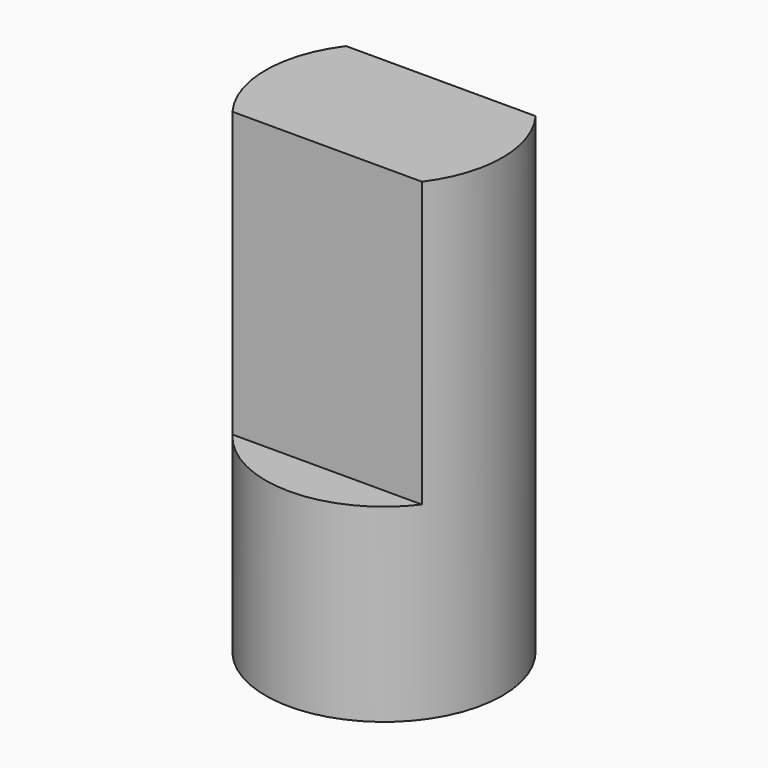
from build123d import *

# Parameters (mm, degrees)
BOX012_W               = 1
BOX012_H               = 5
BOX012_DEPTH           = 6
BOX012_PLACEMENT_ANGLE = 90
BOX011_W               = 1
BOX011_H               = 5
BOX011_DEPTH           = 6
BOX011_PLACEMENT_ANGLE = 90
CYLINDER017_R          = 2.5
CYLINDER017_DEPTH      = 10


with BuildPart() as cubo008:
    # Box012 → Box012 (new body)
    with BuildSketch(Plane.XY):
        with Locations((0.5, 2.5)):
            Rectangle(BOX012_W, BOX012_H)
    extrude(amount=BOX012_DEPTH)


with BuildPart() as cubo008_1:
    # Box012 placement: moved
    add(cubo008.part.moved(Location((2.5, -2.5, 4))).rotate(Axis((2.5, -2.5, 4), (0, 0, 1)), BOX012_PLACEMENT_ANGLE))


with BuildPart() as fusion008:
    # Box011 → Box011 (new body)
    with BuildSketch(Plane.XY):
        with Locations((0.5, 2.5)):
            Rectangle(BOX011_W, BOX011_H)
    extrude(amount=BOX011_DEPTH)


with BuildPart() as fusion008_1:
    # Box011 placement: moved
    add(fusion008.part.moved(Location((2.5, 1.5, 4))).rotate(Axis((2.5, 1.5, 4), (0, 0, 1)), BOX011_PLACEMENT_ANGLE))

    # Fusion008: union Cubo008
    add(cubo008_1.part)


with BuildPart() as axis_final001:
    # Cylinder017 → Cylinder017 (new body)
    with BuildSketch(Plane.XY):
        Circle(CYLINDER017_R)
    extrude(amount=CYLINDER017_DEPTH)

    # Cut018: cut Fusion008
    add(fusion008_1.part, mode=Mode.SUBTRACT)


with BuildPart() as axis_final001_1:
    # Cut018 placement: moved
    add(axis_final001.part.moved(Location((0, 8, 19))))


solid = axis_final001_1.part
